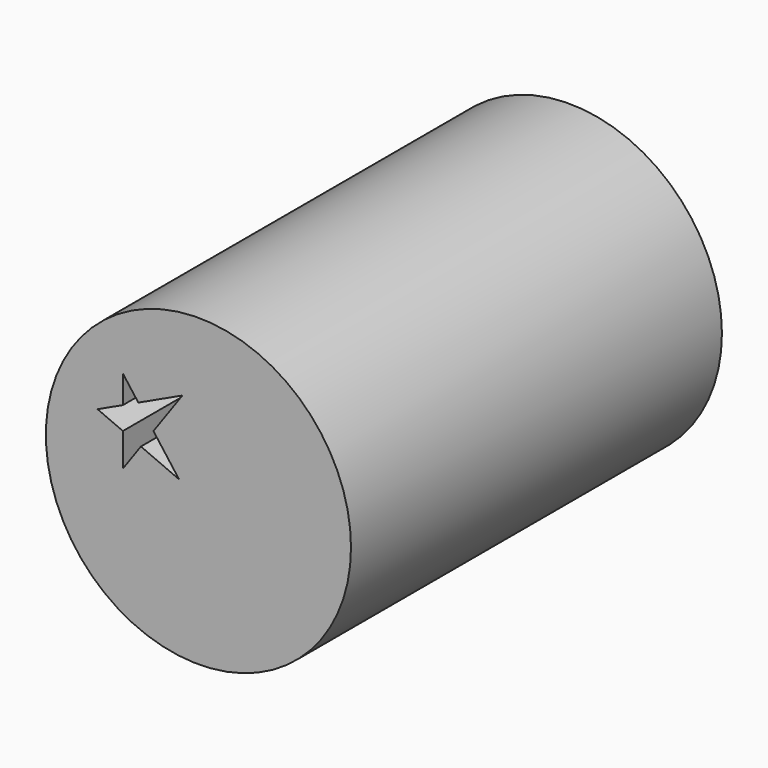
from build123d import *

# Parameters (mm, degrees)
F0_R     = 41.7904194507
F1_DEPTH = 63.5
F3_DEPTH = 127.001


with BuildPart() as f1:
    # F0 (on Front) → F1 (new body, symmetric)
    with BuildSketch(Plane.XZ):
        with Locations((-9.8128121016, 15.3752699469)):
            Circle(F0_R)
    extrude(amount=F1_DEPTH, both=True)

    # F2 (on face) → F3 (cut, through all)
    with BuildSketch(Plane.XZ.offset(63.5)):
        Polygon((-25.5735145776, 20.9861662898), (-15.1132475585, 16.4628084749), (-22.1351497328, 25.825347257), align=None)
        Polygon((-30.5027123541, 14.048775658), (-25.5735145776, 20.9861662898), (-30.5027123541, 23.1177108519), align=None)
        Polygon((-30.5027123541, 23.1177108519), (-25.5735145776, 20.9861662898), (-22.1351497328, 25.825347257), (-26.2723503194, 31.341616208), (-30.5027123541, 29.3637841009), align=None)
        Polygon((-26.2723503194, 31.341616208), (-22.1351497328, 25.825347257), (-14.2079843208, 36.982100457), align=None)
        Polygon((-37.4430641532, 26.1189434677), (-30.5027123541, 23.1177108519), (-30.5027123541, 29.3637841009), align=None)
        Polygon((-30.5027123541, 29.3637841009), (-26.2723503194, 31.341616208), (-30.5027123541, 36.982100457), align=None)
    extrude(amount=-F3_DEPTH, mode=Mode.SUBTRACT)


solid = f1.part
